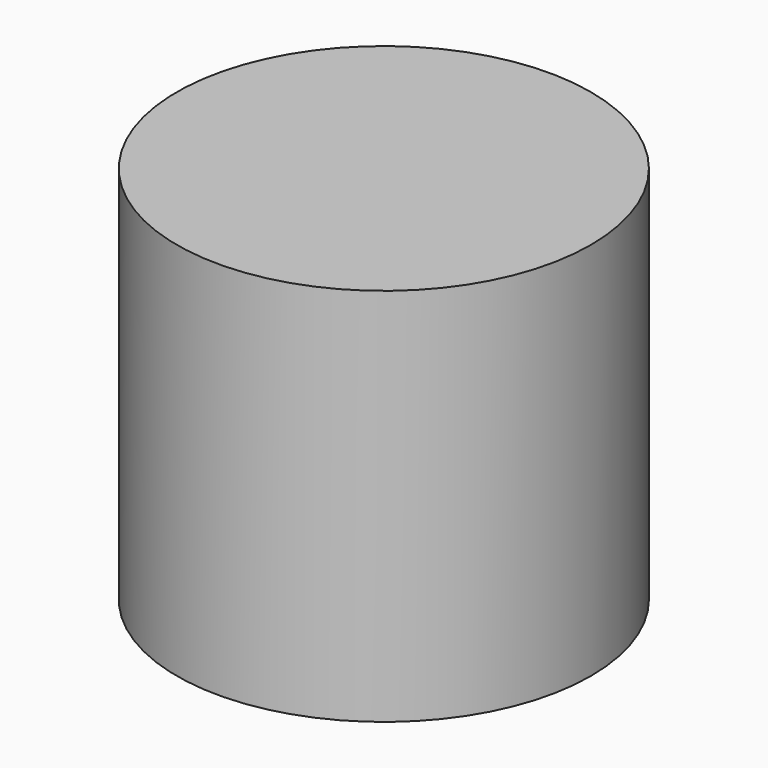
from build123d import *


with BuildPart() as part:
    # Sketch → Revolution (revolve)
    with BuildSketch(Plane.XZ):
        Polygon((0, 55), (0, 45), (20, 45), (20, 0), (30, 0), (30, 55), align=None)
    revolve(axis=Axis((0, 0, 0), (0, 0, 1)))


solid = part.part
